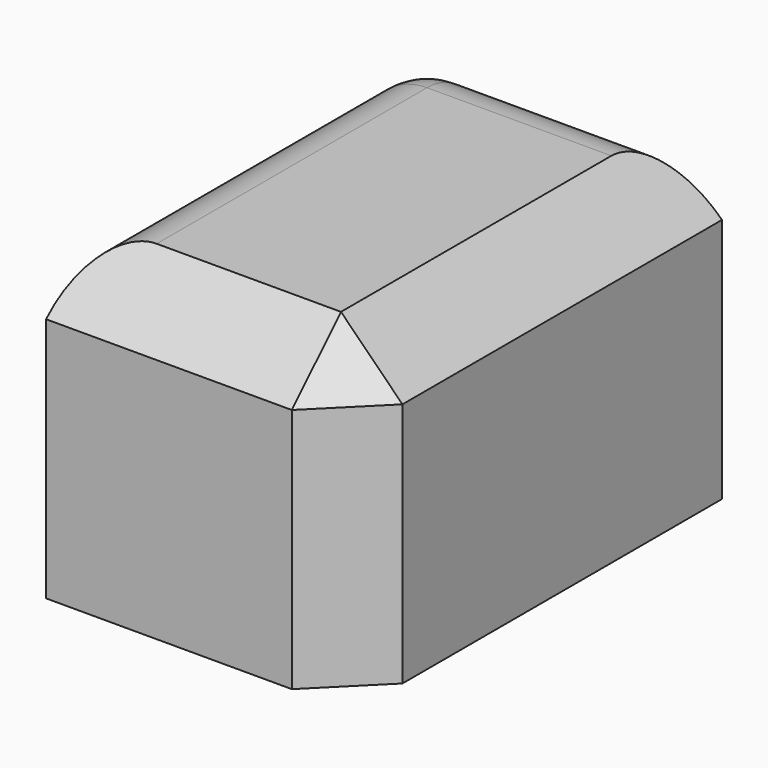
from build123d import *

# Parameters (mm, degrees)
F0_W     = 10
F0_H     = 10
F1_DEPTH = 15
F2_SIZE  = 2
F3_R     = 2


with BuildPart() as f1:
    # F0 (on Front) → F1 (new body)
    with BuildSketch(Plane.XZ):
        with Locations((-5, 5)):
            Rectangle(F0_W, F0_H)
    extrude(amount=F1_DEPTH)

    # F2
    f2_edges = [f1.edges().sort_by_distance(p)[0] for p in [
        (-5, -15, 10),
        (0, -15, 5),
        (0, -7.5, 10),
    ]]
    chamfer(f2_edges, length=F2_SIZE)

    # F3
    f3_edges = [f1.edges().sort_by_distance(p)[0] for p in [
        (-10, 0, 5),
        (-6, 0, 10),
        (-10, -6.5, 10),
    ]]
    fillet(f3_edges, radius=F3_R)


solid = f1.part
